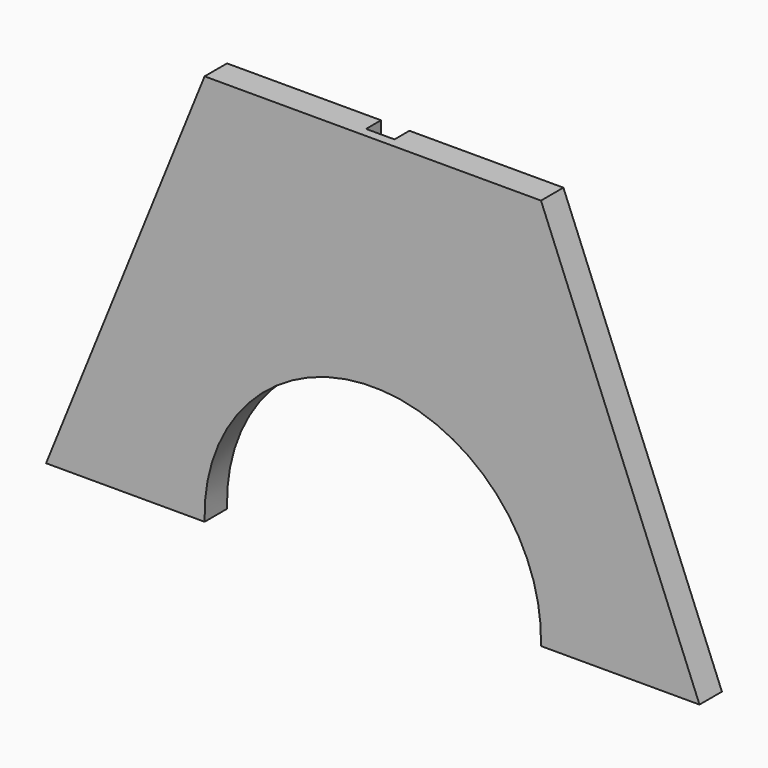
from build123d import *

# Parameters (mm, degrees)
F1_DEPTH = 19.05
F3_DEPTH = 12.7


with BuildPart() as f1:
    # F0 (on Front) → F1 (new body)
    with BuildSketch(Plane.XZ):
        with BuildLine():
            Line((114.3, 149.934994), (0, 149.934994))
            Line((0, 149.934994), (-114.3, 149.934994))
            Line((-114.3, 149.934994), (-222.022257, -116.581239))
            Line((-222.022257, -116.581239), (-114.3, -116.581239))
            ThreePointArc((-114.3, -116.581239), (0, 1.407281), (114.3, -116.581239))
            Line((114.3, -116.581239), (222.022257, -116.581239))
            Line((222.022257, -116.581239), (114.3, 149.934994))
        make_face()
    extrude(amount=F1_DEPTH)

    # F2 (on Front) → F3 (cut)
    with BuildSketch(Plane.XZ):
        Polygon((-9.652, 24.14524), (0, 24.14524), (9.652, 24.14524), (9.652, 151.098922), (0, 151.098922), (-9.652, 151.098922), align=None)
    extrude(amount=F3_DEPTH, mode=Mode.SUBTRACT)


solid = f1.part
